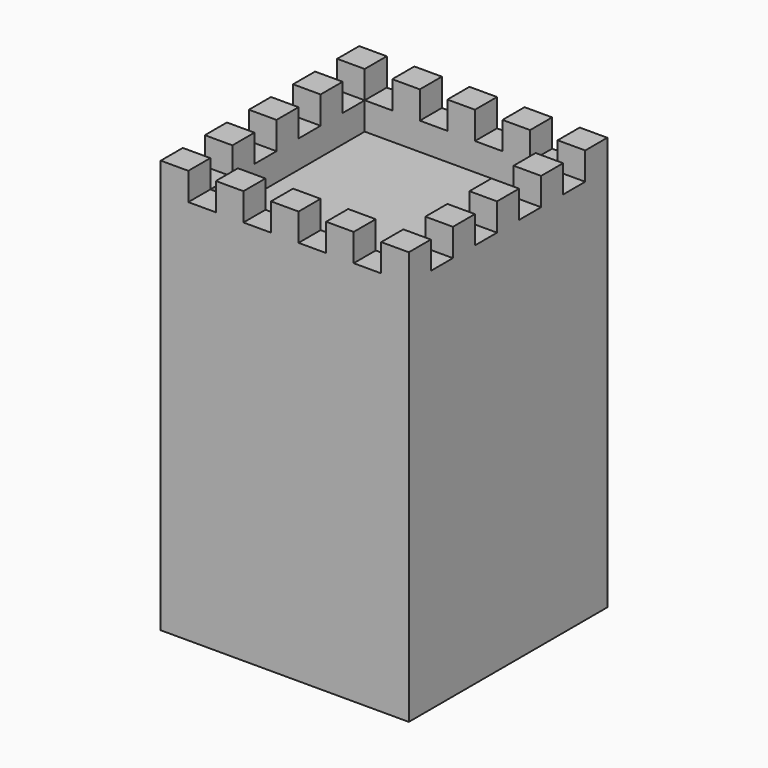
from build123d import *

# Parameters (mm, degrees)
BOX003_W                 = 10
BOX003_H                 = 110
BOX003_DEPTH             = 10
ARRAY001_X_COUNT         = 4
ARRAY001_X_PITCH         = 20
ARRAY001_PLACEMENT_ANGLE = 90
BOX002_W                 = 10
BOX002_H                 = 110
BOX002_DEPTH             = 10
ARRAY_X_COUNT            = 4
ARRAY_X_PITCH            = 20
BOX001_W                 = 70
BOX001_H                 = 70
BOX001_DEPTH             = 30
BOX_W                    = 90
BOX_H                    = 90
BOX_DEPTH                = 150


with BuildPart() as almenas_y:
    # Box003 → Box003 (new body)
    with BuildSketch(Plane.XY):
        with Locations((5, 55)):
            Rectangle(BOX003_W, BOX003_H)
    extrude(amount=BOX003_DEPTH)

    # Array001 X: almenas_y ×4


with BuildPart() as almenas_y_1:
    add(almenas_y.part)
    with Locations(*[(i * ARRAY001_X_PITCH, 0, 0) for i in range(1, ARRAY001_X_COUNT)]):
        add(almenas_y.part)


with BuildPart() as almenas_y_2:
    # Array001 placement: moved
    add(almenas_y_1.part.moved(Location((90, 20, 0))).rotate(Axis((90, 20, 0), (0, 0, 1)), ARRAY001_PLACEMENT_ANGLE))


with BuildPart() as obj1:
    # Box002 → Box002 (new body)
    with BuildSketch(Plane.XY):
        with Locations((5, 55)):
            Rectangle(BOX002_W, BOX002_H)
    extrude(amount=BOX002_DEPTH)

    # Array X: obj1 ×4


with BuildPart() as obj1_1:
    add(obj1.part)
    with Locations(*[(i * ARRAY_X_PITCH, 0, 0) for i in range(1, ARRAY_X_COUNT)]):
        add(obj1.part)

    # Fusion: union almenas_y
    add(almenas_y_2.part)


with BuildPart() as obj1_2:
    # Fusion placement: moved
    add(obj1_1.part.moved(Location((10, -10, 140))))


with BuildPart() as obj2:
    # Box001 → Box001 (new body)
    with BuildSketch(Plane(origin=(10, 10, 130), x_dir=(1, 0, 0), z_dir=(0, 0, 1))):
        with Locations((35, 35)):
            Rectangle(BOX001_W, BOX001_H)
    extrude(amount=BOX001_DEPTH)


with BuildPart() as torre_almenas:
    # Box → Box (new body)
    with BuildSketch(Plane.XY):
        with Locations((45, 45)):
            Rectangle(BOX_W, BOX_H)
    extrude(amount=BOX_DEPTH)

    # Cut: cut obj2
    add(obj2.part, mode=Mode.SUBTRACT)

    # Cut001: cut obj1
    add(obj1_2.part, mode=Mode.SUBTRACT)


solid = torre_almenas.part
